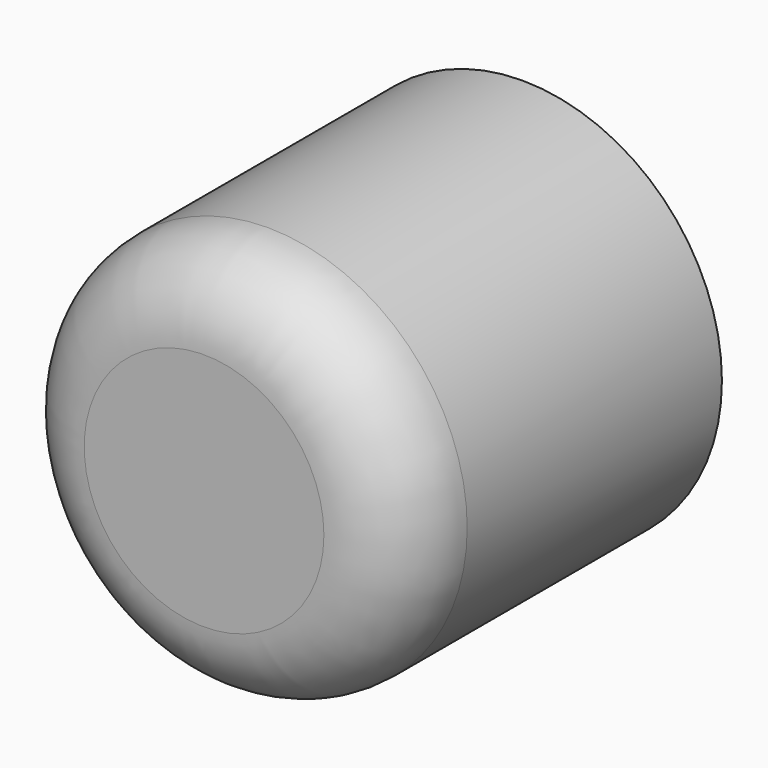
from build123d import *

# Parameters (mm, degrees)
F0_R     = 63.6455484586
F1_DEPTH = 127
F2_R     = 25.4
F4_D     = 101.6
F4_DEPTH = 88.9
F4_TIP   = 30.5237194466


with BuildPart() as f1:
    # F0 (on Front) → F1 (new body)
    with BuildSketch(Plane.XZ):
        Circle(F0_R)
    extrude(amount=F1_DEPTH)

    # F2
    f2_edges = [f1.edges().sort_by_distance(p)[0] for p in [
        (-63.645548, -127, 0),
    ]]
    fillet(f2_edges, radius=F2_R)

    # F4
    with Locations(Plane(origin=(0, 0, 0), x_dir=(-1, 0, 0), z_dir=(0, 1, 0))):
        with Locations((0, 0)):
            Hole(F4_D / 2, depth=F4_DEPTH)
            with Locations((0, 0, -(F4_DEPTH + F4_TIP / 2))):  # 118° drill point
                Cone(0, F4_D / 2, F4_TIP, mode=Mode.SUBTRACT)


solid = f1.part
